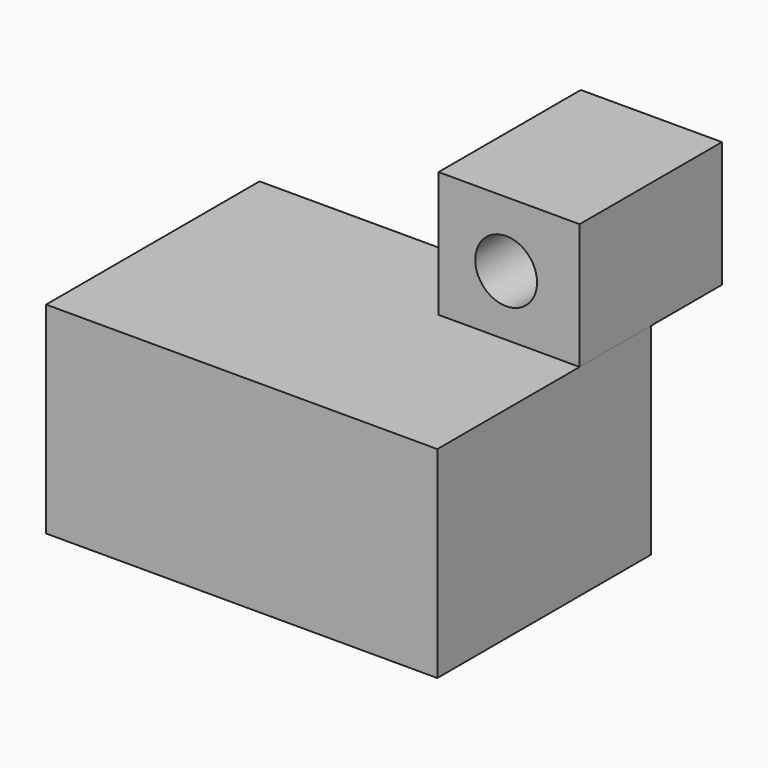
from build123d import *

# Parameters (mm, degrees)
F0_W     = 20.150667
F0_H     = 17.949332
F0_R     = 4.415672
F1_DEPTH = 12.7
F2_DEPTH = 38.1


with BuildPart() as f1:
    # F0 (on Front) → F1 (new body, symmetric)
    with BuildSketch(Plane.XZ):
        with Locations((26.331347, 22.436665)):
            Rectangle(F0_W, F0_H)
        with Locations((25.908014, 22.097999)):
            Circle(F0_R, mode=Mode.SUBTRACT)
    extrude(amount=F1_DEPTH, both=True)

    # F0 (on Front) → F2 (join)
    with BuildSketch(Plane.XZ):
        Polygon((16.256014, 13.461999), (-19.47332, 13.461999), (-19.47332, -15.324668), (36.406681, -15.324668), (36.406681, 13.461999), align=None)
    extrude(amount=F2_DEPTH)


solid = f1.part
